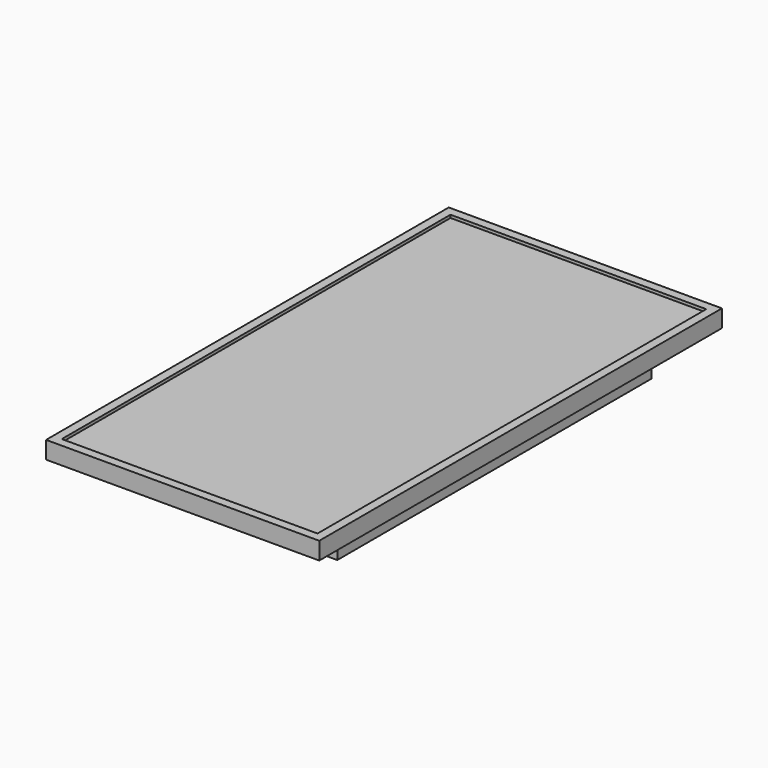
from build123d import *

# Parameters (mm, degrees)
F0_W     = 596.9
F0_H     = 1099.82
F0_W_2   = 558.8
F0_H_2   = 1061.72
F1_DEPTH = 38.1
F2_W     = 1099.82
F2_H     = 9.525
F3_DEPTH = 584.2
F4_W     = 558.8
F4_H     = 1061.72
F5_DEPTH = 19.05
F6_W     = 482.6
F6_H     = 38.1
F6_H_2   = 782.32
F7_DEPTH = 88.9


with BuildPart() as f1:
    # F0 (on Top) → F1 (new body)
    with BuildSketch(Plane.XY):
        with Locations((199.572543, 475.369852)):
            Rectangle(F0_W, F0_H)
        with Locations((199.572543, 475.369852)):
            Rectangle(F0_W_2, F0_H_2, mode=Mode.SUBTRACT)
    extrude(amount=F1_DEPTH)

    # F2 (on face) → F3 (join)
    with BuildSketch(Plane(origin=(-98.877457, 0, 0), x_dir=(0, -1, 0), z_dir=(-1, 0, 0))):
        with Locations((-475.369852, 26.9875)):
            Rectangle(F2_W, F2_H)
    extrude(amount=-F3_DEPTH)

    # F4 (on face) → F5 (join)
    with BuildSketch(Plane(origin=(0, 0, 22.225), x_dir=(1, 0, 0), z_dir=(0, 0, -1))):
        with Locations((199.572543, -475.369852)):
            Rectangle(F4_W, F4_H)
        Polygon((440.872543, -968.129852), (-41.727457, -968.129852), (-41.727457, -904.629852), (-41.727457, -866.529852), (-41.727457, -84.209852), (-41.727457, -46.109852), (-41.727457, 17.390148), (440.872543, 17.390148), (440.872543, -46.109852), (440.872543, -84.209852), (440.872543, -866.529852), (440.872543, -904.629852), align=None, mode=Mode.SUBTRACT)
    extrude(amount=F5_DEPTH)

    # F6 (on face) → F7 (join)
    with BuildSketch(Plane(origin=(0, 0, 22.225), x_dir=(1, 0, 0), z_dir=(0, 0, -1))):
        with Locations((199.572543, -885.579852)):
            Rectangle(F6_W, F6_H)
        with Locations((199.572543, -65.159852)):
            Rectangle(F6_W, F6_H)
        with Locations((199.572543, -475.369852)):
            Rectangle(F6_W, F6_H_2)
    extrude(amount=F7_DEPTH)


solid = f1.part
